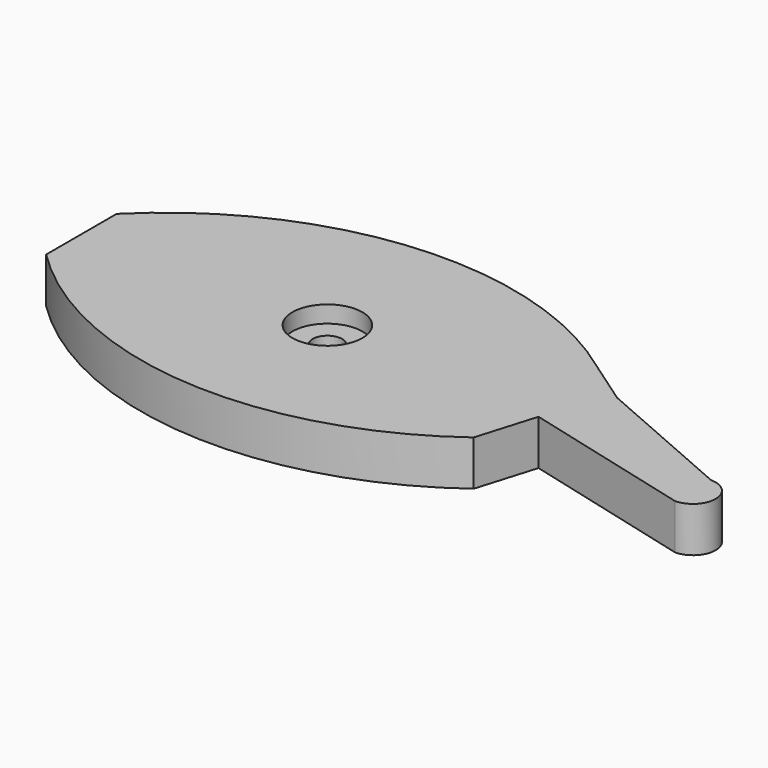
from build123d import *

# Parameters (mm, degrees)
PAD_DEPTH       = 4
POCKET_DEPTH    = 1.5
SKETCH002_R     = 3.1
POCKET001_DEPTH = 1.5
SKETCH003_R     = 1.3
POCKET002_DEPTH = 4.001


with BuildPart() as part:
    # Sketch001 → Pad (new body)
    with BuildSketch(Plane.XY):
        with BuildLine():
            Line((-21.78, 0), (-21.78, 3.903012))
            ThreePointArc((18.4, 6.81485), (-2.23065, 12.819278), (-21.78, 3.903012))
            Line((18.4, 6.81485), (22.430655, 4.019184))
            Line((35.211283, -1.556892), (22.430655, 4.019184))
            ThreePointArc((35.211283, -5.556892), (37.211283, -3.556892), (35.211283, -1.556892))
            Line((35.211283, -5.556892), (19.965446, -1.596008))
            Line((18.4, -6.81485), (19.965446, -1.596008))
            ThreePointArc((-21.78, -3.903012), (-2.23065, -12.819278), (18.4, -6.81485))
            Line((-21.78, 0), (-21.78, -3.903012))
        make_face()
    extrude(amount=PAD_DEPTH)

    # Sketch → Pocket (cut)
    with BuildSketch(Plane.XY):
        with BuildLine():
            ThreePointArc((2.2, 6.7), (0, 8.9), (-2.2, 6.7))
            Line((-2.2, 3.2), (-2.2, 6.7))
            Line((-15.52, 2.26), (-2.2, 3.2))
            ThreePointArc((-15.52, 2.26), (-17.78, 0), (-15.52, -2.26))
            Line((-2.2, -3.2), (-15.52, -2.26))
            Line((-2.2, -6.7), (-2.2, -3.2))
            ThreePointArc((-2.2, -6.7), (0, -8.9), (2.2, -6.7))
            Line((2.2, -3.77), (2.2, -6.7))
            Line((16.13, -2.27), (2.2, -3.77))
            ThreePointArc((16.13, -2.27), (18.4, 0), (16.13, 2.27))
            Line((2.2, 3.77), (16.13, 2.27))
            Line((2.2, 6.7), (2.2, 3.77))
        make_face()
    extrude(amount=POCKET_DEPTH, mode=Mode.SUBTRACT)

    # Sketch002 → Pocket001 (cut)
    with BuildSketch(Plane.XY.offset(4)):
        Circle(SKETCH002_R)
    extrude(amount=-POCKET001_DEPTH, mode=Mode.SUBTRACT)

    # Sketch003 → Pocket002 (cut, through all)
    with BuildSketch(Plane.XY):
        Circle(SKETCH003_R)
    extrude(amount=POCKET002_DEPTH, mode=Mode.SUBTRACT)


solid = part.part
